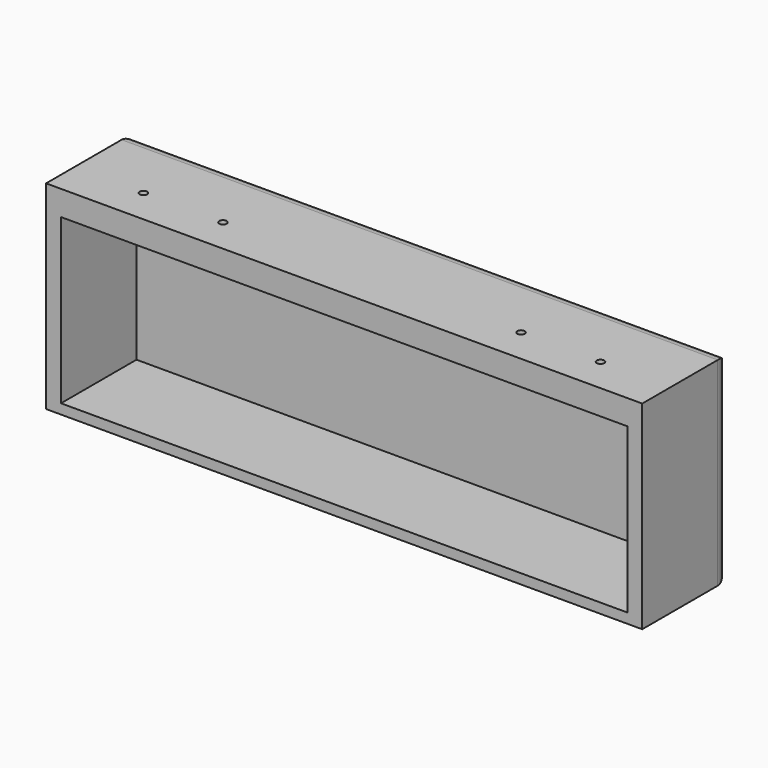
from build123d import *

# Parameters (mm, degrees)
F0_W     = 120
F0_H     = 40
F1_DEPTH = 22
F2_W     = 114
F2_H     = 33
F3_DEPTH = 19
F4_R     = 3
F5_R     = 0.75
F6_DEPTH = 2


with BuildPart() as f1:
    # F0 (on Front) → F1 (new body)
    with BuildSketch(Plane.XZ):
        Rectangle(F0_W, F0_H)
    extrude(amount=F1_DEPTH)

    # F2 (on face) → F3 (cut)
    with BuildSketch(Plane.XZ.offset(22)):
        with Locations((0, -1.5)):
            Rectangle(F2_W, F2_H)
    extrude(amount=-F3_DEPTH, mode=Mode.SUBTRACT)

    # F4
    f4_edges = [f1.edges().sort_by_distance(p)[0] for p in [
        (0, 0, 20),
        (-60, 0, 0),
        (0, 0, -20),
        (60, 0, 0),
    ]]
    fillet(f4_edges, radius=F4_R)

    # F5 (on face) → F6 (cut)
    with BuildSketch(Plane.XY.offset(20)):
        with Locations((-46, -15)):
            Circle(F5_R)
        with Locations((-30, -15)):
            Circle(F5_R)
        with Locations((30, -15)):
            Circle(F5_R)
        with Locations((46, -15)):
            Circle(F5_R)
    extrude(amount=-F6_DEPTH, mode=Mode.SUBTRACT)


solid = f1.part
